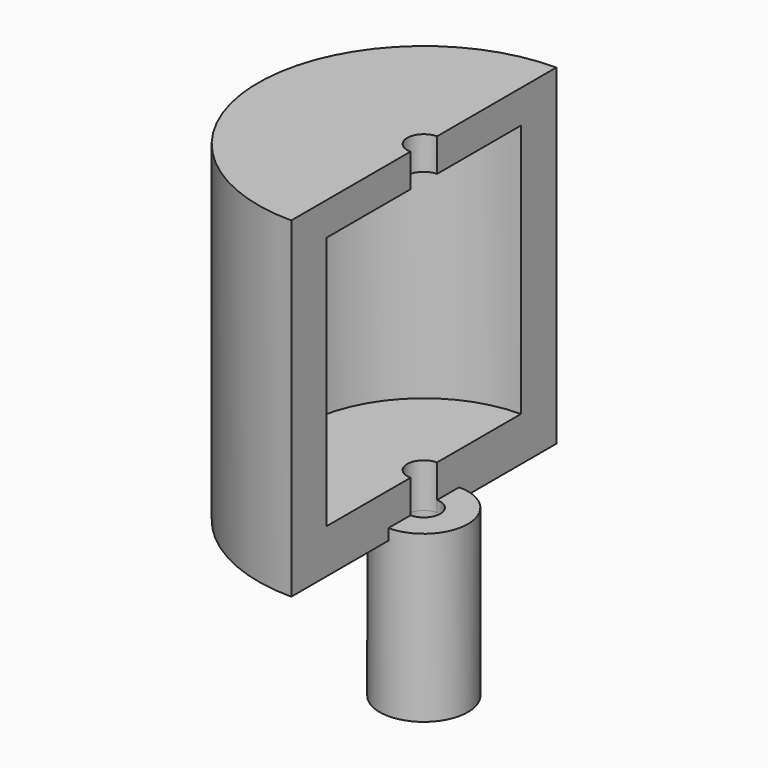
from build123d import *

# Parameters (mm, degrees)
F0_R     = 4
F0_R_2   = 1.5
F1_DEPTH = 15
F3_ANGLE = 180
F4_R     = 1.5
F5_DEPTH = 38.1


with BuildPart() as f1:
    # F0 (on Top) → F1 (new body)
    with BuildSketch(Plane.XY):
        Circle(F0_R)
        Circle(F0_R_2, mode=Mode.SUBTRACT)
    extrude(amount=F1_DEPTH)

    # F2 (on Front) → F3 (revolve, symmetric)
    with BuildSketch(Plane.XZ) as f3_sk:
        Polygon((-15, 13.998025), (0, 13.998025), (0, 17.998025), (-11, 17.998025), (-11, 40.998025), (0, 40.998025), (0, 43.998025), (-15, 43.998025), align=None)
    revolve(axis=Axis((0, 0, 21.028005), (0, 0, -1)), revolution_arc=F3_ANGLE / 2)
    revolve(f3_sk.sketch, axis=Axis((0, 0, 21.028005), (0, 0, 1)), revolution_arc=F3_ANGLE / 2)

    # F4 (on face) → F5 (cut)
    with BuildSketch(Plane.XY.offset(43.998025)):
        Circle(F4_R)
    extrude(amount=-F5_DEPTH, mode=Mode.SUBTRACT)


solid = f1.part
